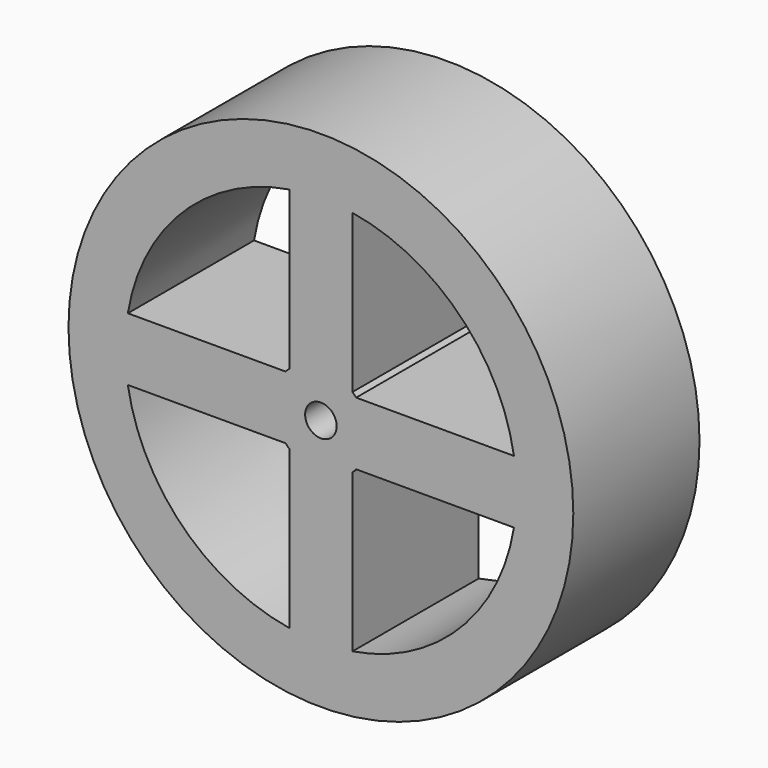
from build123d import *

# Parameters (mm, degrees)
F0_R     = 40
F0_R_2   = 2.5
F1_DEPTH = 25


with BuildPart() as f1:
    # F0 (on Front) → F1 (new body)
    with BuildSketch(Plane.XZ):
        Circle(F0_R)
        with BuildLine():
            ThreePointArc((-5, -30.594117), (-21.92031, -21.92031), (-30.594117, -5))
            Line((-30.594117, -5), (-5.59017, -5))
            ThreePointArc((-5.59017, -5), (-5.303301, -5.303301), (-5, -5.59017))
            Line((-5, -5.59017), (-5, -30.594117))
        make_face(mode=Mode.SUBTRACT)
        with BuildLine():
            Line((5, -30.594117), (5, -5.59017))
            ThreePointArc((5, -5.59017), (5.303301, -5.303301), (5.59017, -5))
            Line((5.59017, -5), (30.594117, -5))
            ThreePointArc((30.594117, -5), (21.92031, -21.92031), (5, -30.594117))
        make_face(mode=Mode.SUBTRACT)
        with BuildLine():
            Line((-5, 30.594117), (-5, 5.59017))
            ThreePointArc((-5, 5.59017), (-5.303301, 5.303301), (-5.59017, 5))
            Line((-5.59017, 5), (-30.594117, 5))
            ThreePointArc((-30.594117, 5), (-21.92031, 21.92031), (-5, 30.594117))
        make_face(mode=Mode.SUBTRACT)
        Circle(F0_R_2, mode=Mode.SUBTRACT)
        with BuildLine():
            ThreePointArc((5.59017, 5), (5.303301, 5.303301), (5, 5.59017))
            Line((5, 5.59017), (5, 30.594117))
            ThreePointArc((5, 30.594117), (21.92031, 21.92031), (30.594117, 5))
            Line((30.594117, 5), (5.59017, 5))
        make_face(mode=Mode.SUBTRACT)
    extrude(amount=F1_DEPTH)


solid = f1.part
